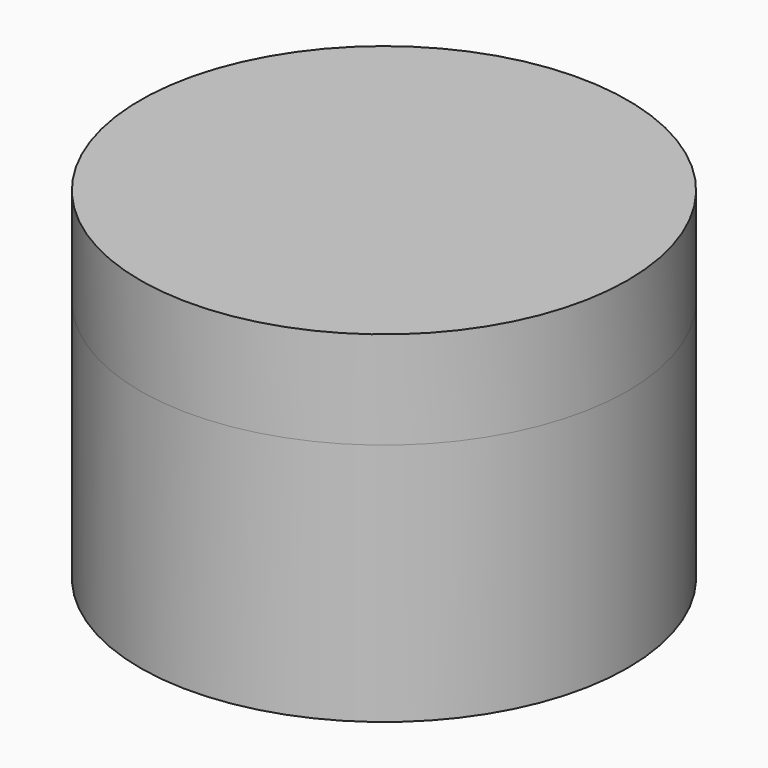
from build123d import *

# Parameters (mm, degrees)
F0_R     = 12.7
F0_R_2   = 8.89
F2_DEPTH = 12.7
F3_DEPTH = 5.08


with BuildPart() as f2:
    # F0 (on Top) → F2 (new body)
    with BuildSketch(Plane.XY):
        Circle(F0_R)
        Circle(F0_R_2, mode=Mode.SUBTRACT)
    extrude(amount=-F2_DEPTH)

    # F0 (on Top) → F3 (join)
    with BuildSketch(Plane.XY):
        Circle(F0_R)
        Circle(F0_R_2, mode=Mode.SUBTRACT)
        Circle(F0_R_2)
    extrude(amount=F3_DEPTH)


solid = f2.part
